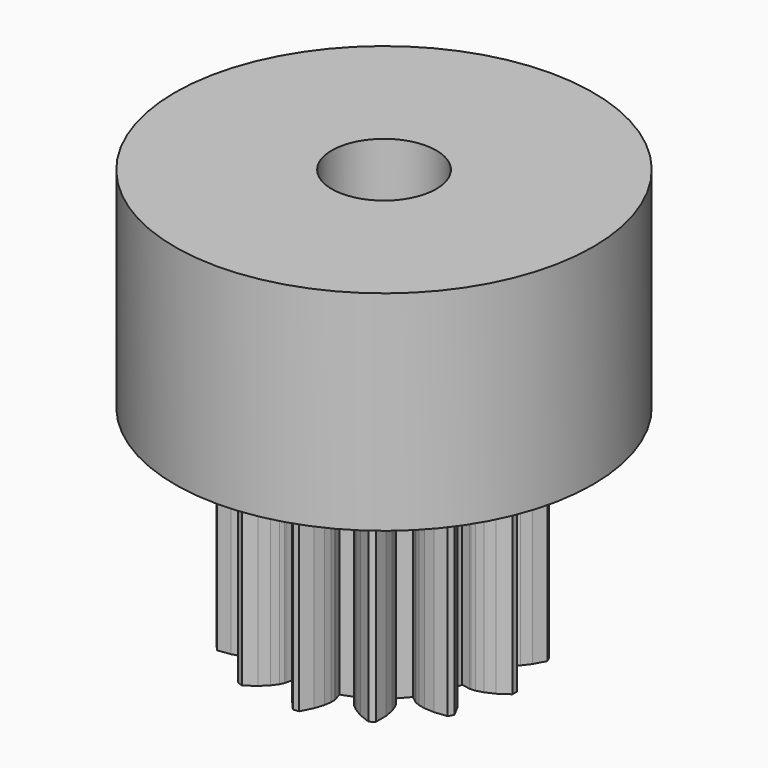
from build123d import *

# Parameters (mm, degrees)
CYLINDER003_R          = 2.5
CYLINDER003_DEPTH      = 22
CYLINDER002_R          = 10
CYLINDER002_DEPTH      = 10
LINEAREXTRUDE002_DEPTH = 10


with BuildPart() as cylinder003:
    # cylinder003 → cylinder003 (new body)
    with BuildSketch(Plane.XY.offset(-1)):
        Circle(CYLINDER003_R)
    extrude(amount=CYLINDER003_DEPTH)


with BuildPart() as cylinder002:
    # cylinder002 → cylinder002 (new body)
    with BuildSketch(Plane.XY.offset(10)):
        Circle(CYLINDER002_R)
    extrude(amount=CYLINDER002_DEPTH)


with BuildPart() as difference003:
    # union002 → LinearExtrude002 (new body)
    with BuildSketch(Plane(origin=(0, 0, 0), x_dir=(0, 1, 0), z_dir=(0, 0, 1))):
        Polygon((0.711931, -4.306123), (1.370771, -4.143733), (1.502069, -4.540636), (1.530367, -4.602072), (1.641751, -4.771632), (1.871155, -5.020002), (2.245545, -5.309618), (2.782207, -5.596589), (3.025427, -5.468937), (3.094113, -4.864255), (3.068442, -4.391617), (2.994354, -4.061731), (2.918082, -3.873743), (2.883597, -3.815555), (2.631538, -3.482032), (3.139447, -3.032064), (3.440155, -3.322487), (3.493763, -3.363735), (3.671187, -3.46211), (3.989737, -3.575421), (4.455834, -3.657875), (5.064387, -3.662577), (5.220426, -3.436516), (5.000234, -2.869177), (4.757857, -2.462607), (4.53895, -2.204938), (4.384052, -2.073928), (4.326475, -2.038431), (3.948292, -1.860249), (4.188912, -1.225786), (4.590143, -1.343197), (4.656779, -1.354807), (4.859597, -1.359461), (5.194318, -1.311756), (5.645345, -1.168159), (6.186377, -0.889514), (6.219486, -0.616832), (5.76086, -0.216806), (5.357304, 0.030555), (5.043726, 0.156979), (4.845688, 0.200998), (4.77821, 0.205671), (4.36054, 0.187693), (4.278749, 0.861305), (4.688584, 0.943805), (4.752983, 0.964491), (4.934732, 1.054624), (5.208943, 1.252418), (5.541575, 1.58917), (5.891142, 2.087328), (5.793738, 2.344162), (5.201743, 2.485233), (4.729457, 2.516719), (4.393046, 2.482935), (4.197235, 2.429879), (4.135314, 2.402658), (3.773841, 2.192639), (3.388376, 2.751081), (3.712928, 3.01459), (3.760337, 3.062835), (3.879381, 3.227107), (4.030263, 3.529677), (4.168298, 3.982437), (4.246318, 4.585986), (4.040715, 4.768136), (3.45097, 4.617935), (3.018149, 4.426332), (2.735972, 4.240079), (2.587247, 4.102103), (2.545069, 4.049224), (2.322601, 3.695276), (1.721767, 4.010618), (1.886685, 4.394771), (1.906243, 4.459522), (1.93531, 4.6603), (1.928298, 4.99833), (1.840114, 5.463378), (1.628715, 6.034052), (1.362012, 6.099788), (0.909622, 5.692724), (0.61542, 5.321926), (0.452121, 5.025874), (0.384552, 4.834585), (0.371779, 4.768162), (0.339281, 4.351371), (-0.339281, 4.351371), (-0.371779, 4.768162), (-0.384552, 4.834585), (-0.452121, 5.025874), (-0.61542, 5.321926), (-0.909622, 5.692724), (-1.362012, 6.099788), (-1.628715, 6.034052), (-1.840114, 5.463378), (-1.928298, 4.99833), (-1.93531, 4.6603), (-1.906243, 4.459522), (-1.886685, 4.394771), (-1.721767, 4.010618), (-2.322601, 3.695276), (-2.545069, 4.049224), (-2.587247, 4.102103), (-2.735972, 4.240079), (-3.018149, 4.426332), (-3.45097, 4.617935), (-4.040715, 4.768136), (-4.246318, 4.585986), (-4.168298, 3.982437), (-4.030263, 3.529677), (-3.879381, 3.227107), (-3.760337, 3.062835), (-3.712928, 3.01459), (-3.388376, 2.751081), (-3.773841, 2.192638), (-4.135314, 2.402658), (-4.197235, 2.429879), (-4.393046, 2.482935), (-4.729457, 2.516719), (-5.201743, 2.485233), (-5.793738, 2.344162), (-5.891142, 2.087328), (-5.541575, 1.58917), (-5.208943, 1.252418), (-4.934732, 1.054624), (-4.752983, 0.964491), (-4.688584, 0.943805), (-4.278749, 0.861305), (-4.36054, 0.187693), (-4.77821, 0.205671), (-4.845688, 0.200998), (-5.043726, 0.156979), (-5.357304, 0.030555), (-5.76086, -0.216806), (-6.219486, -0.616832), (-6.186377, -0.889514), (-5.645345, -1.168159), (-5.194318, -1.311756), (-4.859597, -1.359461), (-4.656779, -1.354807), (-4.590143, -1.343197), (-4.188912, -1.225786), (-3.948292, -1.860249), (-4.326475, -2.038431), (-4.384052, -2.073928), (-4.53895, -2.204938), (-4.757857, -2.462607), (-5.000234, -2.869177), (-5.220426, -3.436516), (-5.064387, -3.662577), (-4.455834, -3.657875), (-3.989737, -3.575421), (-3.671187, -3.46211), (-3.493763, -3.363735), (-3.440155, -3.322487), (-3.139447, -3.032064), (-2.631537, -3.482032), (-2.883597, -3.815555), (-2.918082, -3.873743), (-2.994354, -4.061731), (-3.068442, -4.391617), (-3.094113, -4.864255), (-3.025427, -5.468937), (-2.782207, -5.596589), (-2.245545, -5.309618), (-1.871155, -5.020002), (-1.641751, -4.771632), (-1.530367, -4.602072), (-1.502069, -4.540636), (-1.370771, -4.143733), (-0.71193, -4.306122), (-0.780122, -4.71858), (-0.783616, -4.78613), (-0.763789, -4.98803), (-0.676085, -5.31456), (-0.47917, -5.74499), (-0.137342, -6.24849), (0.137342, -6.24849), (0.47917, -5.74499), (0.676085, -5.31456), (0.763789, -4.98803), (0.783616, -4.78613), (0.780122, -4.71858), align=None)
    extrude(amount=LINEAREXTRUDE002_DEPTH)

    # union003: union cylinder002
    add(cylinder002.part)

    # difference003: cut cylinder003
    add(cylinder003.part, mode=Mode.SUBTRACT)


solid = difference003.part
